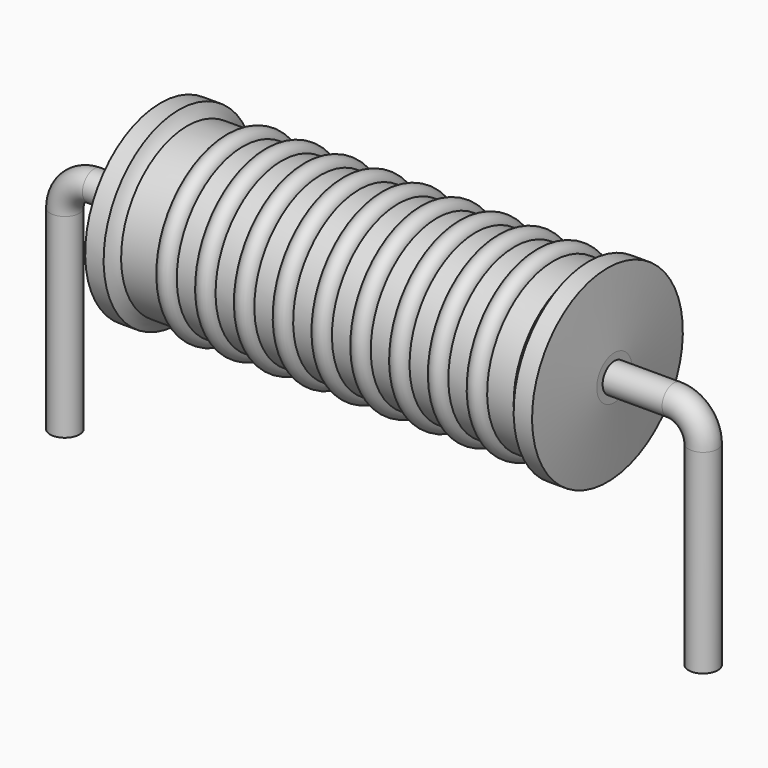
from build123d import *

# Parameters (mm, degrees)
SKETCH_R = 0.35


with BuildPart() as sweep_body:
    # Sweep: sweep along a path in Sketch001
    with BuildLine(Plane.XZ) as sweep_path:
        Line((0, -3), (0, 1.65))
        ThreePointArc((0, 1.65), (0.205028, 2.144977), (0.700007, 2.35))
        Line((0.700007, 2.35), (14.54, 2.35))
        ThreePointArc((14.54, 2.35), (15.034975, 2.144975), (15.24, 1.65))
        Line((15.24, 1.65), (15.24, -3))
    # Sketch → Sweep (sweep)
    with BuildSketch(Plane.XY.offset(-2)):
        Circle(SKETCH_R)
    sweep(path=sweep_path.line)


with BuildPart() as revolution:
    # Sketch002 → Revolution (revolve)
    with BuildSketch(Plane.XZ):
        with BuildLine():
            Line((2.285, 4.6), (2.725, 4.6))
            ThreePointArc((2.725, 4.6), (2.809594, 4.452128), (2.923, 4.325))
            Line((2.923, 4.325), (12.295, 4.325))
            ThreePointArc((12.295, 4.325), (12.419171, 4.451163), (12.515, 4.6))
            Line((12.515, 4.6), (12.955, 4.6))
            ThreePointArc((13.12, 2.875), (13.039205, 3.737663), (12.955, 4.6))
            Line((13.12, 2.35), (13.12, 2.875))
            Line((2.12, 2.35), (13.12, 2.35))
            Line((2.12, 2.35), (2.12, 2.875))
            ThreePointArc((2.285, 4.6), (2.200795, 3.737663), (2.12, 2.875))
        make_face()
    revolve(axis=Axis((2.12, 0, 2.35), (1, 0, 0)))


with BuildPart() as obj1:
    # Sketch003 → Revolution001 (revolve)
    with BuildSketch(Plane.XZ):
        with BuildLine():
            ThreePointArc((4.256316, 4.281), (4.024737, 4.512579), (3.793158, 4.281))
            Line((3.33, 4.281), (3.793158, 4.281))
            Line((3.33, 4.281), (3.33, 3.831))
            Line((3.33, 3.831), (12.13, 3.831))
            Line((12.13, 3.831), (12.13, 4.281))
            Line((11.666842, 4.281), (12.13, 4.281))
            ThreePointArc((11.666842, 4.281), (11.435263, 4.512579), (11.203684, 4.281))
            Line((10.740526, 4.281), (11.203684, 4.281))
            ThreePointArc((10.740526, 4.281), (10.508947, 4.512579), (10.277368, 4.281))
            Line((9.814211, 4.281), (10.277368, 4.281))
            ThreePointArc((9.814211, 4.281), (9.582632, 4.512579), (9.351053, 4.281))
            Line((8.887895, 4.281), (9.351053, 4.281))
            ThreePointArc((8.887895, 4.281), (8.656316, 4.512579), (8.424737, 4.281))
            Line((7.961579, 4.281), (8.424737, 4.281))
            ThreePointArc((7.961579, 4.281), (7.73, 4.512579), (7.498421, 4.281))
            Line((7.035263, 4.281), (7.498421, 4.281))
            ThreePointArc((7.035263, 4.281), (6.803684, 4.512579), (6.572105, 4.281))
            Line((6.108947, 4.281), (6.572105, 4.281))
            ThreePointArc((6.108947, 4.281), (5.877368, 4.512579), (5.645789, 4.281))
            Line((5.182632, 4.281), (5.645789, 4.281))
            ThreePointArc((5.182632, 4.281), (4.951053, 4.512579), (4.719474, 4.281))
            Line((4.256316, 4.281), (4.719474, 4.281))
        make_face()
    revolve(axis=Axis((2.395, 0, 2.35), (1, 0, 0)))

    # obj1: union Sweep body, Revolution
    add(sweep_body.part)
    add(revolution.part)


solid = obj1.part
